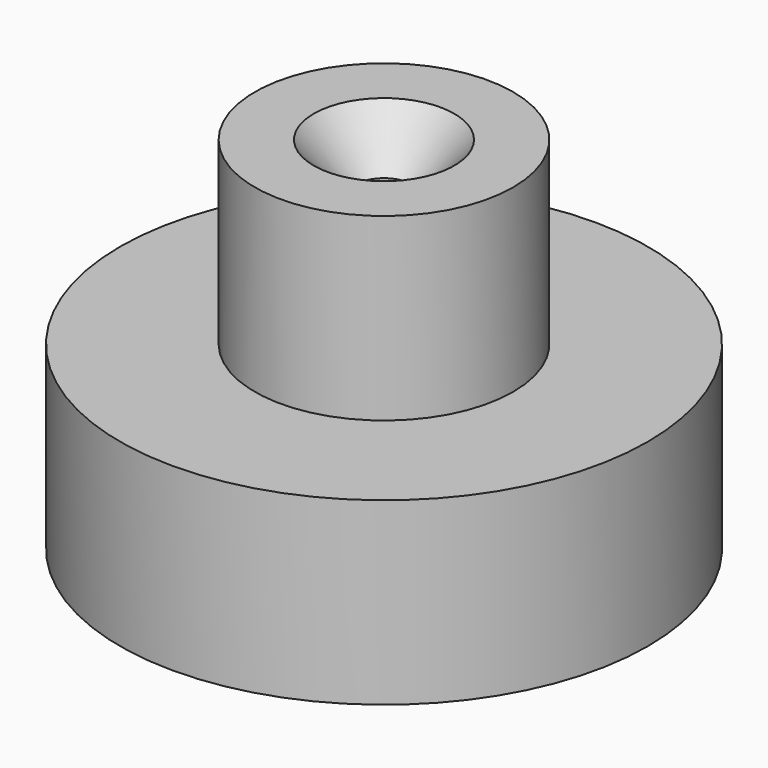
from build123d import *

# Parameters (mm, degrees)
F0_R           = 37.2422807911
F1_DEPTH       = 25.4
F2_R           = 18.2238332667
F3_DEPTH       = 25.4
F5_D           = 7.9375
F5_CSINK_D     = 19.8374
F5_CSINK_ANGLE = 82


with BuildPart() as f1:
    # F0 (on Top) → F1 (new body)
    with BuildSketch(Plane.XY):
        Circle(F0_R)
    extrude(amount=F1_DEPTH)

    # F2 (on face) → F3 (join)
    with BuildSketch(Plane.XY.offset(25.4)):
        Circle(F2_R)
    extrude(amount=F3_DEPTH)

    # F5 (through all)
    with Locations(Plane.XY.offset(50.8)):
        with Locations((0, 0)):
            CounterSinkHole(F5_D / 2, F5_CSINK_D / 2, counter_sink_angle=F5_CSINK_ANGLE)


solid = f1.part
